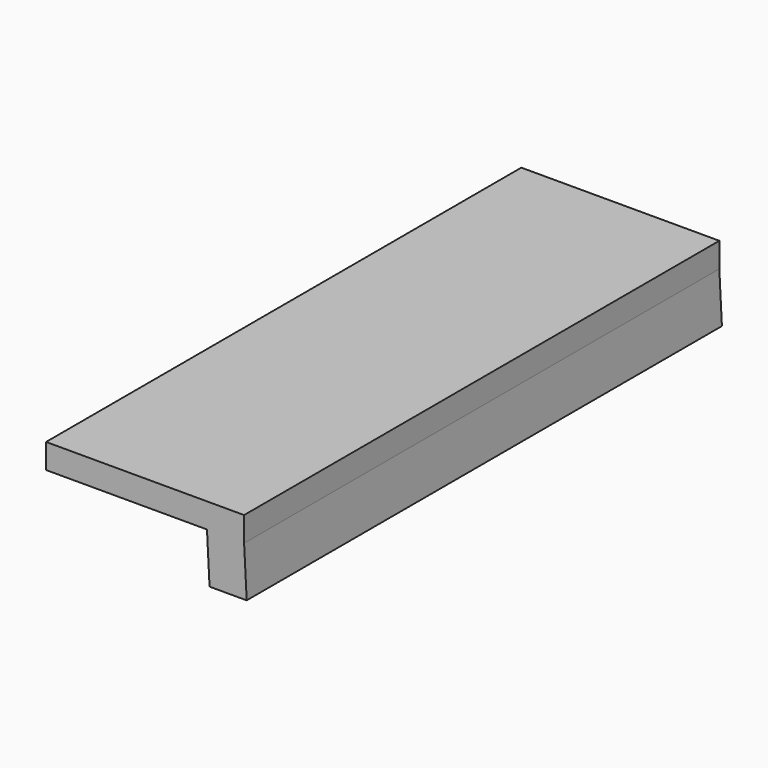
from build123d import *

# Parameters (mm, degrees)
F1_DEPTH = 304.8
F2_DEPTH = 304.8


with BuildPart() as f1:
    # F0 (on Front) → F1 (new body)
    with BuildSketch(Plane.XZ):
        Polygon((31.75, -6.35), (50.8, -6.35), (50.8, 6.35), (-50.8, 6.35), (-50.8, -6.35), align=None)
    extrude(amount=F1_DEPTH)

    # F0 (on Front) → F2 (join)
    with BuildSketch(Plane.XZ):
        Polygon((52.131158, -31.75), (50.8, -6.35), (31.75, -6.35), (33.081158, -31.75), align=None)
    extrude(amount=F2_DEPTH)


solid = f1.part
